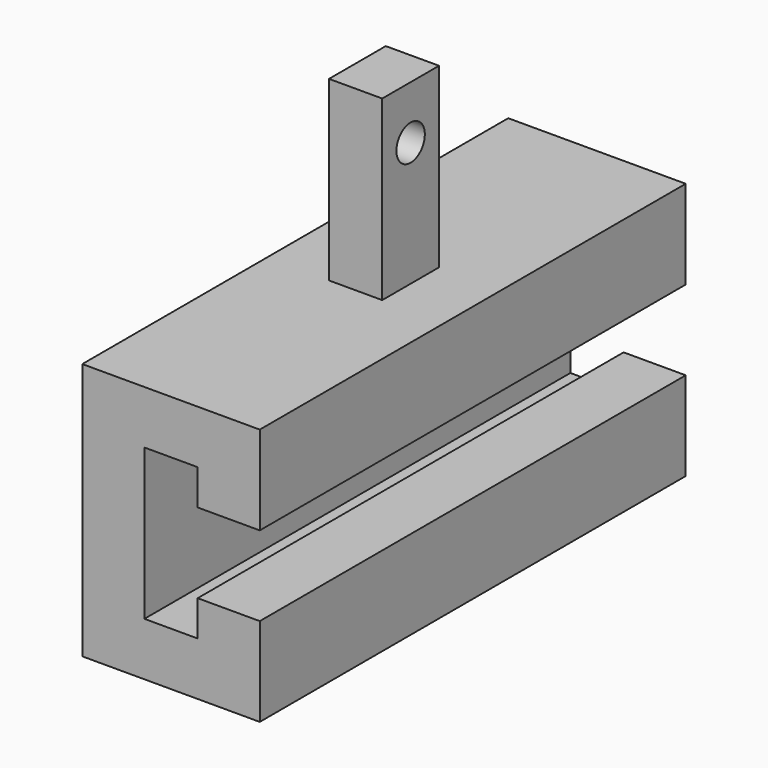
from build123d import *

# Parameters (mm, degrees)
F1_DEPTH = 30
F3_DEPTH = 10
F4_R     = 1
F5_DEPTH = 5


with BuildPart() as f1:
    # F0 (on Front) → F1 (new body)
    with BuildSketch(Plane.XZ):
        Polygon((0, 7.25), (0, 0), (0, -7.25), (10, -7.25), (10, -2.25), (6.5, -2.25), (6.5, -4.25), (3.5, -4.25), (3.5, 0), (3.5, 4.25), (6.5, 4.25), (6.5, 2.25), (10, 2.25), (10, 7.25), align=None)
    extrude(amount=F1_DEPTH)

    # F2 (on face) → F3 (join)
    with BuildSketch(Plane.XY.offset(7.25)):
        Polygon((6.5, -13), (5, -13), (3.5, -13), (3.5, -15), (3.5, -17), (5, -17), (6.5, -17), (6.5, -15), align=None)
    extrude(amount=F3_DEPTH)

    # F4 (on face) → F5 (cut)
    with BuildSketch(Plane(origin=(3.5, 0, 0), x_dir=(0, -1, 0), z_dir=(-1, 0, 0))):
        with Locations((15, 14.25)):
            Circle(F4_R)
    extrude(amount=-F5_DEPTH, mode=Mode.SUBTRACT)


solid = f1.part
